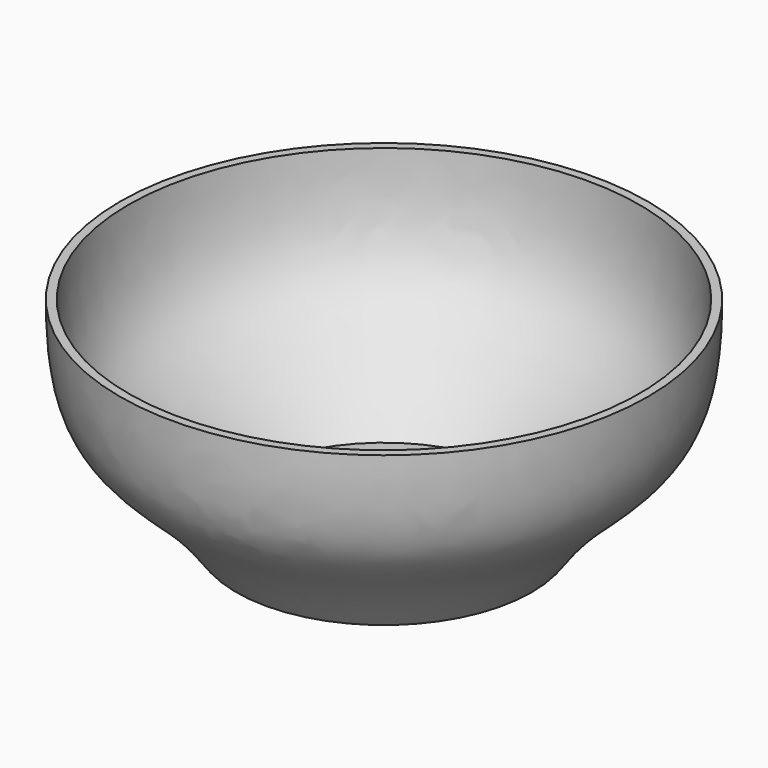
from build123d import *


with BuildPart() as f1:
    # F0 (on Front) → F1 (revolve)
    with BuildSketch(Plane.XZ):
        with BuildLine():
            Line((-66.04, 0), (0, 0))
            Line((0, 0), (0, 5.08))
            Line((0, 5.08), (-62.23, 5.08))
            add(Edge.make_bspline(
                [(-62.23, 5.08), (-93.128543, 43.772999), (-113.710351, 35.387092), (-114.3, 93.98)],
                knots=[0, 0, 0, 0, 103.026671, 103.026671, 103.026671, 103.026671], degree=3))
            Line((-114.3, 93.98), (-118.11, 93.98))
            add(Edge.make_bspline(
                [(-66.04, 0), (-97.928487, 45.796312), (-118.11, 32.037765), (-118.11, 93.98)],
                knots=[0, 0, 0, 0, 107.440799, 107.440799, 107.440799, 107.440799], degree=3))
        make_face()
    revolve(axis=Axis((0, 0, 91.097772), (0, 0, -1)))


solid = f1.part
